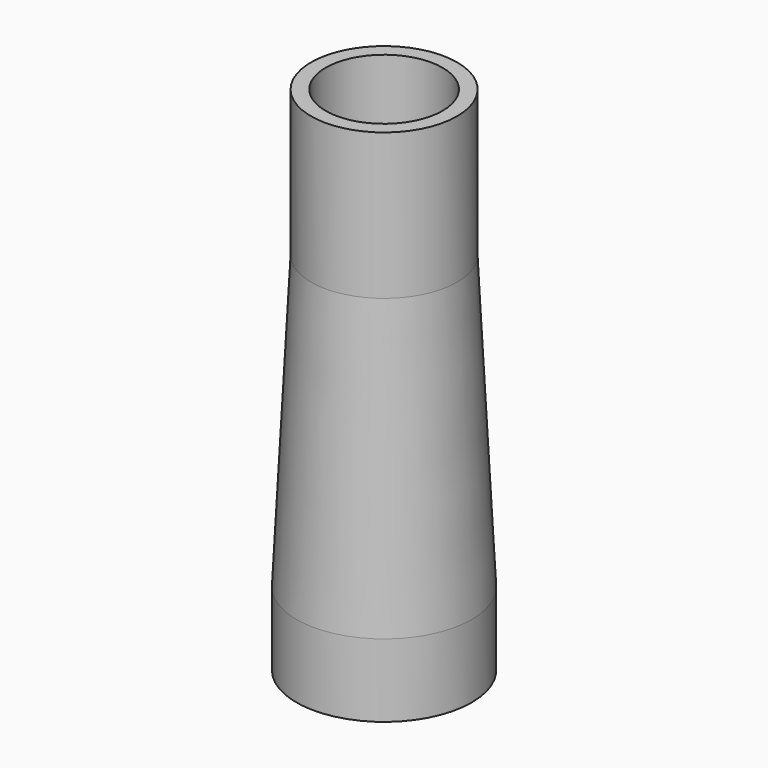
from build123d import *

# Parameters (mm, degrees)
F0_R      = 15.24
F1_DEPTH  = 12.7
F3_R      = 12.7
F1_FACE_R = 15.24
F5_R      = 12.7
F6_DEPTH  = 25.4
F7_R      = 10.16
F8_DEPTH  = 88.901


with BuildPart() as f1:
    # F0 (on Top) → F1 (new body)
    with BuildSketch(Plane.XY):
        Circle(F0_R)
    extrude(amount=F1_DEPTH)

    # F3 (on offset) → F4 section 0
    with BuildSketch(Plane.XY.offset(63.5)):
        Circle(F3_R)
    # F1_face (on face) → F4 section 1
    with BuildSketch(Plane.XY.offset(12.7)):
        Circle(F1_FACE_R)
    loft()

    # F5 (on face) → F6 (join)
    with BuildSketch(Plane.XY.offset(63.5)):
        Circle(F5_R)
    extrude(amount=F6_DEPTH)

    # F7 (on face) → F8 (cut, through all)
    with BuildSketch(Plane.XY.offset(88.9)):
        Circle(F7_R)
    extrude(amount=-F8_DEPTH, mode=Mode.SUBTRACT)


solid = f1.part
